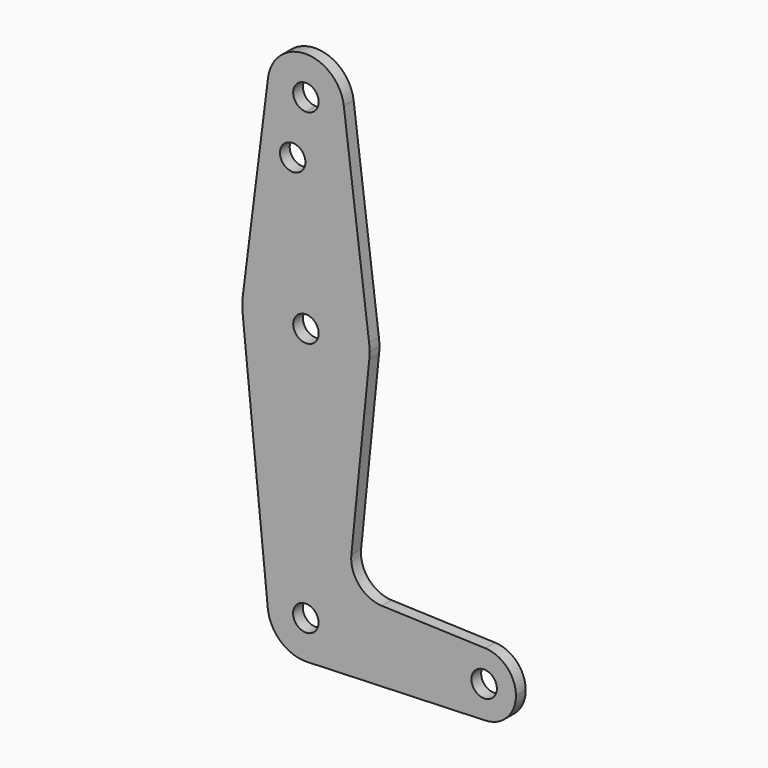
from build123d import *

# Parameters (mm, degrees)
F0_R     = 3.175
F1_DEPTH = 3.048


with BuildPart() as f1:
    # F0 (on Front) → F1 (new body)
    with BuildSketch(Plane.XZ):
        with BuildLine():
            ThreePointArc((-57.407272, 54.159304), (-62.827336, 56.404368), (-60.582272, 50.984304))
            ThreePointArc((-60.582272, 50.984304), (-58.337208, 51.91424), (-57.407272, 54.159304))
        make_face()
        with BuildLine():
            ThreePointArc((-60.582272, 44.634304), (-53.84708, 47.424112), (-51.057272, 54.159304))
            ThreePointArc((-51.057272, 54.159304), (-51.075967, 54.755787), (-51.131979, 55.349929))
            ThreePointArc((-51.131979, 55.349929), (-60.582272, 63.684304), (-70.032565, 55.349929))
            ThreePointArc((-70.032565, 55.349929), (-67.726022, 47.859109), (-60.582272, 44.634304))
        make_face()
        with BuildLine():
            ThreePointArc((-57.407272, 54.159304), (-58.337208, 51.91424), (-60.582272, 50.984304))
            ThreePointArc((-60.582272, 50.984304), (-62.827336, 56.404368), (-57.407272, 54.159304))
        make_face(mode=Mode.SUBTRACT)
        with BuildLine():
            ThreePointArc((-51.131979, 55.349929), (-51.075967, 54.755787), (-51.057272, 54.159304))
            ThreePointArc((-51.057272, 54.159304), (-53.84708, 47.424112), (-60.582272, 44.634304))
            Line((-60.582272, 44.634304), (-60.582272, 19.234304))
            ThreePointArc((-60.582272, 19.234304), (-50.081946, 15.265554), (-44.831783, 5.343679))
            Line((-44.831783, 5.343679), (-51.131979, 55.349929))
        make_face()
        with BuildLine():
            Line((-60.582272, 19.234304), (-60.582272, 44.634304))
            ThreePointArc((-60.582272, 44.634304), (-67.726022, 47.859109), (-70.032565, 55.349929))
            Line((-70.032565, 55.349929), (-76.33276, 5.343679))
            ThreePointArc((-76.33276, 5.343679), (-71.082597, 15.265554), (-60.582272, 19.234304))
        make_face()
        with Locations((-63.885398, 39.884504)):
            Circle(F0_R, mode=Mode.SUBTRACT)
        with BuildLine():
            ThreePointArc((-57.407272, 3.359304), (-58.337208, 5.604368), (-60.582272, 6.534304))
            ThreePointArc((-60.582272, 6.534304), (-62.827336, 1.11424), (-57.407272, 3.359304))
        make_face()
        with BuildLine():
            ThreePointArc((-44.707272, 3.359304), (-44.73843, 4.353443), (-44.831783, 5.343679))
            ThreePointArc((-44.831783, 5.343679), (-50.081946, 15.265554), (-60.582272, 19.234304))
            ThreePointArc((-60.582272, 19.234304), (-71.082597, 15.265554), (-76.33276, 5.343679))
            ThreePointArc((-76.33276, 5.343679), (-76.455972, 3.562473), (-76.378389, 1.778698))
            ThreePointArc((-76.378389, 1.778698), (-60.5892, -12.515695), (-44.78754, 1.764911))
            ThreePointArc((-44.78754, 1.764911), (-44.727352, 2.561098), (-44.707272, 3.359304))
        make_face()
        with BuildLine():
            ThreePointArc((-57.407272, 3.359304), (-62.827336, 1.11424), (-60.582272, 6.534304))
            ThreePointArc((-60.582272, 6.534304), (-58.337208, 5.604368), (-57.407272, 3.359304))
        make_face(mode=Mode.SUBTRACT)
        with BuildLine():
            ThreePointArc((-44.78754, 1.764911), (-60.5892, -12.515695), (-76.378389, 1.778698))
            Line((-76.378389, 1.778698), (-70.087655, -61.08906))
            ThreePointArc((-70.087655, -61.08906), (-61.084757, -50.627536), (-51.084985, -60.140696))
            ThreePointArc((-51.084985, -60.140696), (-53.755577, -66.754523), (-60.269807, -69.65962))
            Line((-60.269807, -69.65962), (-15.876503, -68.073132))
            ThreePointArc((-15.876503, -68.073132), (-24.097485, -60.140696), (-15.876503, -52.20826))
            Line((-15.876503, -52.20826), (-41.634237, -51.287754))
            ThreePointArc((-41.634237, -51.287754), (-47.341777, -48.568321), (-49.260303, -42.544153))
            Line((-49.260303, -42.544153), (-44.78754, 1.764911))
        make_face()
        with BuildLine():
            ThreePointArc((-51.084985, -60.140696), (-61.084757, -50.627536), (-70.087655, -61.08906))
            ThreePointArc((-70.087655, -61.08906), (-66.873935, -67.316249), (-60.269807, -69.65962))
            ThreePointArc((-60.269807, -69.65962), (-53.755577, -66.754523), (-51.084985, -60.140696))
        make_face()
        with Locations((-60.609985, -60.140696)):
            Circle(F0_R, mode=Mode.SUBTRACT)
        with BuildLine():
            ThreePointArc((-15.876503, -52.20826), (-24.097485, -60.140696), (-15.876503, -68.073132))
            ThreePointArc((-15.876503, -68.073132), (-10.447978, -65.652219), (-8.222485, -60.140696))
            ThreePointArc((-8.222485, -60.140696), (-10.447978, -54.629173), (-15.876503, -52.20826))
        make_face()
        with Locations((-16.159985, -60.140696)):
            Circle(F0_R, mode=Mode.SUBTRACT)
    extrude(amount=F1_DEPTH)


solid = f1.part
